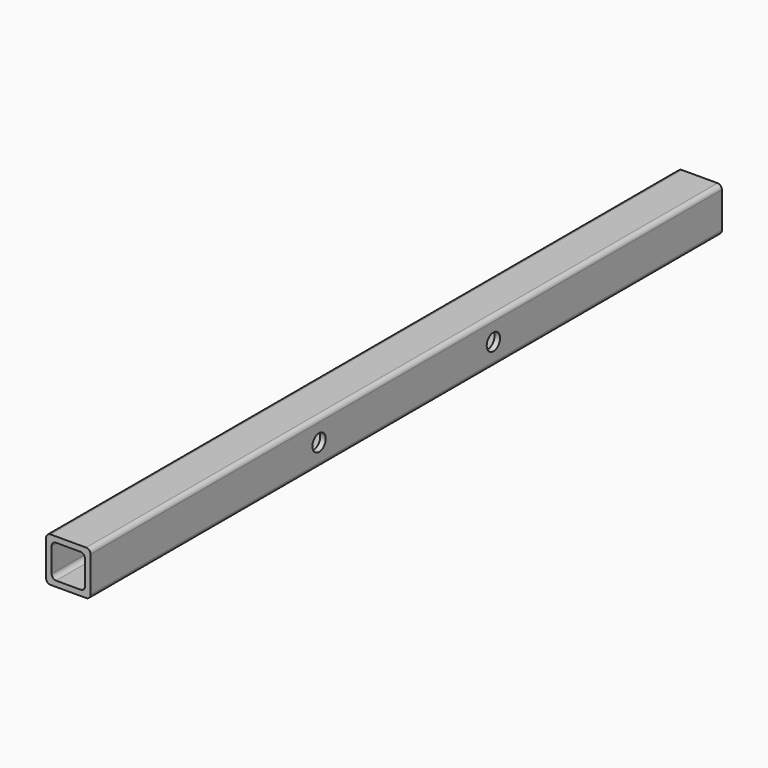
from build123d import *

# Parameters (mm, degrees)
F0_W     = 50.8
F0_H     = 50.8
F0_W_2   = 38.1
F0_H_2   = 38.1
F1_DEPTH = 450.85
F2_R     = 9.525
F3_DEPTH = 50.801
F4_R     = 5.08


with BuildPart() as f1:
    # F0 (on Front) → F1 (new body, symmetric)
    with BuildSketch(Plane.XZ):
        Rectangle(F0_W, F0_H)
        Rectangle(F0_W_2, F0_H_2, mode=Mode.SUBTRACT)
    extrude(amount=F1_DEPTH, both=True)

    # F2 (on face) → F3 (cut, through all)
    with BuildSketch(Plane.YZ.offset(25.4)):
        with Locations((-124.46, 0)):
            Circle(F2_R)
        with Locations((124.46, 0)):
            Circle(F2_R)
    extrude(amount=-F3_DEPTH, mode=Mode.SUBTRACT)

    # F4
    f4_edges = [f1.edges().sort_by_distance(p)[0] for p in [
        (-25.4, 0, 25.4),
        (25.4, 0, 25.4),
        (19.05, 0, -19.05),
        (-19.05, 0, -19.05),
        (-25.4, 0, -25.4),
        (25.4, 0, -25.4),
        (19.05, 0, 19.05),
        (-19.05, 0, 19.05),
    ]]
    fillet(f4_edges, radius=F4_R)


solid = f1.part
